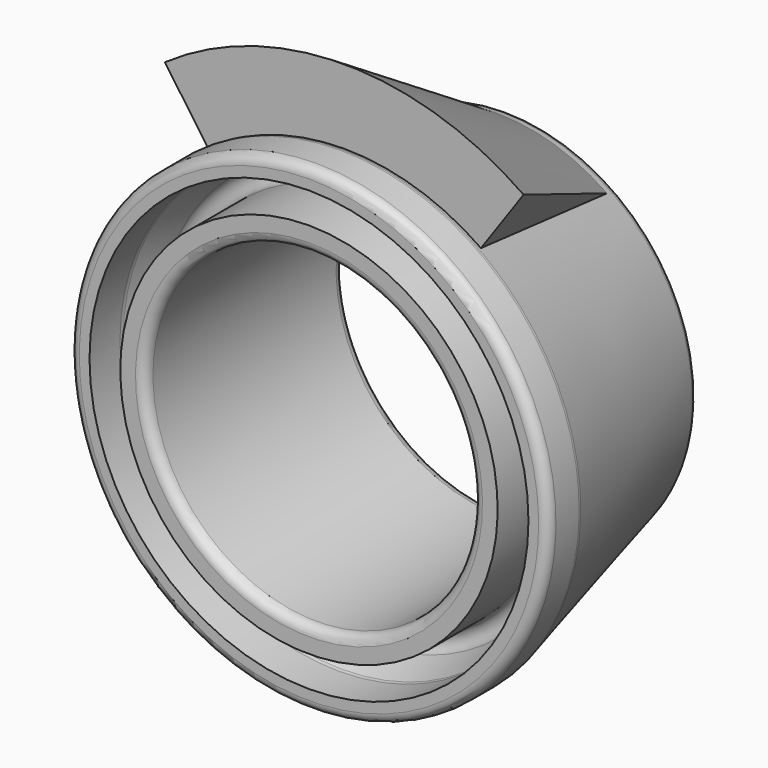
from build123d import *

# Parameters (mm, degrees)
F3_ANGLE_BACK = 35
F3_ANGLE      = 70


with BuildPart() as f1:
    # F0 (on Right) → F1 (revolve)
    with BuildSketch(Plane.YZ):
        with BuildLine():
            ThreePointArc((0, 17.4736175303), (0.2851659723, 16.7851659723), (0.9736175303, 16.5))
            Line((0.9736175303, 16.5), (24.0263824697, 16.5))
            ThreePointArc((24.0263824697, 16.5), (24.7148340277, 16.7851659723), (25, 17.4736175303))
            Line((25, 17.4736175303), (25, 18.2345319688))
            ThreePointArc((25, 18.2345319688), (24.7917713581, 18.8362885183), (24.2561536054, 19.1806484101))
            Line((24.2561536054, 19.1806484101), (4.1132397783, 24.072498911))
            ThreePointArc((4.1132397783, 24.072498911), (3.999174179, 24.0931002797), (3.8834686425, 24.1))
            Line((3.8834686425, 24.1), (0.9736175303, 24.1))
            ThreePointArc((0.9736175303, 24.1), (0.2851659723, 23.8148340277), (0, 23.1263824697))
            Line((0, 23.1263824697), (0, 22.1))
            Line((0, 22.1), (3.8279989592, 22.1))
            ThreePointArc((3.8279989592, 22.1), (3.9973772101, 22.0851536121), (4.1615898696, 22.041067224))
            Line((4.1615898696, 22.041067224), (7.1820975615, 20.9394703011))
            ThreePointArc((7.1820975615, 20.9394703011), (7.8242185305, 19.8260320447), (6.8394672164, 19))
            Line((6.8394672164, 19), (0, 19))
            Line((0, 19), (0, 17.4736175303))
        make_face()
    revolve(axis=Axis((0, 13.1596643478, 0), (0, 1, 0)))

    # F2 (on Right) → F3 (revolve)
    with BuildSketch(Plane.YZ, mode=Mode.PRIVATE) as f3_sk:
        Polygon((4.4389441609, 23.2468191534), (24.2150072008, 18.9727302641), (4.4389441609, 31.4812585711), align=None)
    revolve(f3_sk.sketch.rotate(Axis((0, 14.4669124857, 0), (0, 1, 0)), -F3_ANGLE_BACK), axis=Axis((0, 14.4669124857, 0), (0, 1, 0)), revolution_arc=F3_ANGLE)


solid = f1.part
